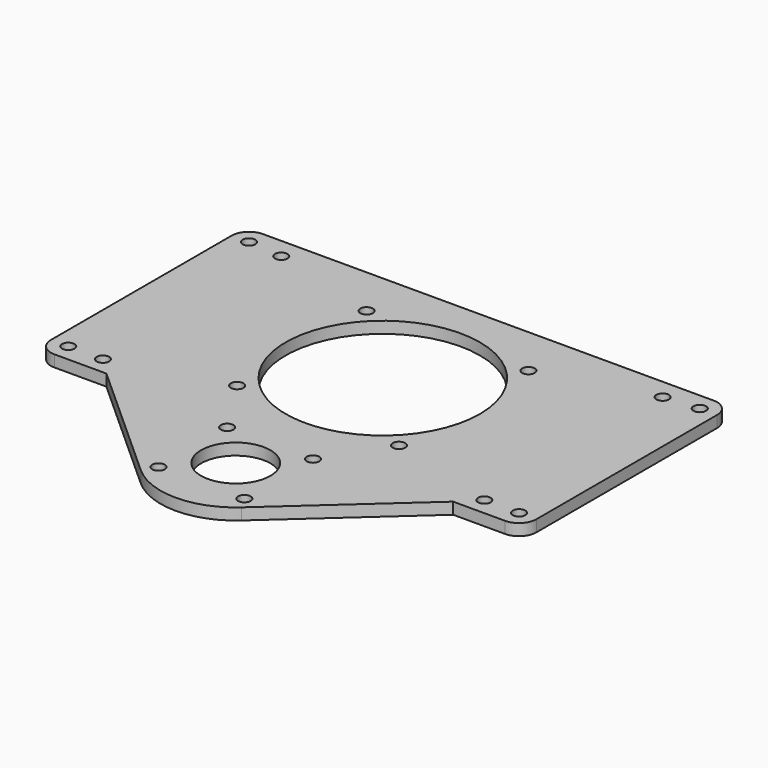
from build123d import *

# Parameters (mm, degrees)
F0_R     = 1.7272
F0_R_2   = 9.525
F0_R_3   = 26.67
F1_DEPTH = 3.175
F2_R     = 4.7625


with BuildPart() as f1:
    # F0 (on Top) → F1 (new body)
    with BuildSketch(Plane.XY):
        with BuildLine():
            Line((66.6623, 36.195), (-66.6623, 36.195))
            Line((-66.6623, 36.195), (-66.6623, -35.3695))
            Line((-66.6623, -35.3695), (-47.6123, -35.3695))
            Line((-47.6123, -35.3695), (-13.812487, -65.816176))
            ThreePointArc((-13.812487, -65.816176), (0, -71.12), (13.812487, -65.816176))
            Line((13.812487, -65.816176), (47.6123, -35.3695))
            Line((47.6123, -35.3695), (66.6623, -35.3695))
            Line((66.6623, -35.3695), (66.6623, 36.195))
        make_face()
        with Locations((-11.786586, -62.269086)):
            Circle(F0_R, mode=Mode.SUBTRACT)
        with Locations((-61.8998, -30.607)):
            Circle(F0_R, mode=Mode.SUBTRACT)
        with Locations((-52.3748, -30.607)):
            Circle(F0_R, mode=Mode.SUBTRACT)
        with Locations((-11.786586, -38.695914)):
            Circle(F0_R, mode=Mode.SUBTRACT)
        with Locations((-22.226134, -22.226134)):
            Circle(F0_R, mode=Mode.SUBTRACT)
        with Locations((11.786586, -62.269086)):
            Circle(F0_R, mode=Mode.SUBTRACT)
        with Locations((0, -50.4825)):
            Circle(F0_R_2, mode=Mode.SUBTRACT)
        with Locations((11.786586, -38.695914)):
            Circle(F0_R, mode=Mode.SUBTRACT)
        with Locations((22.226134, -22.226134)):
            Circle(F0_R, mode=Mode.SUBTRACT)
        with Locations((52.3748, -30.607)):
            Circle(F0_R, mode=Mode.SUBTRACT)
        with Locations((61.8998, -30.607)):
            Circle(F0_R, mode=Mode.SUBTRACT)
        with Locations((-61.8998, 31.4325)):
            Circle(F0_R, mode=Mode.SUBTRACT)
        with Locations((-52.3748, 30.607)):
            Circle(F0_R, mode=Mode.SUBTRACT)
        with Locations((-22.226134, 22.226134)):
            Circle(F0_R, mode=Mode.SUBTRACT)
        Circle(F0_R_3, mode=Mode.SUBTRACT)
        with Locations((22.226134, 22.226134)):
            Circle(F0_R, mode=Mode.SUBTRACT)
        with Locations((52.3748, 30.607)):
            Circle(F0_R, mode=Mode.SUBTRACT)
        with Locations((61.8998, 31.4325)):
            Circle(F0_R, mode=Mode.SUBTRACT)
    extrude(amount=F1_DEPTH)

    # F2
    f2_edges = [f1.edges().sort_by_distance(p)[0] for p in [
        (-66.6623, 36.195, 1.5875),
        (66.6623, 36.195, 1.5875),
        (66.6623, -35.3695, 1.5875),
        (-66.6623, -35.3695, 1.5875),
    ]]
    fillet(f2_edges, radius=F2_R)


solid = f1.part
